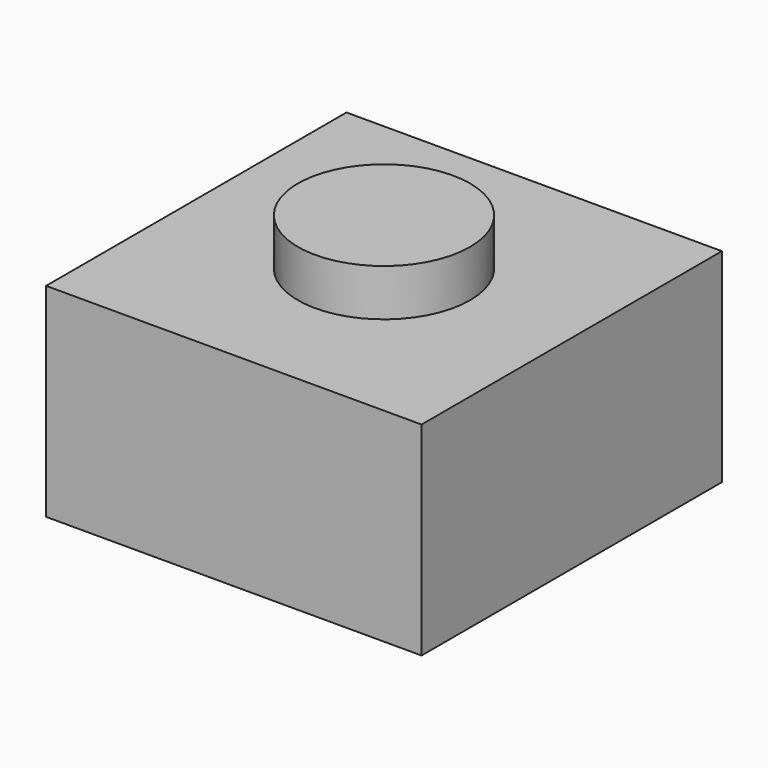
from build123d import *

# Parameters (mm, degrees)
BOX010_W          = 12
BOX010_H          = 12
BOX010_DEPTH      = 6.5
CYLINDER004_R     = 2.75
CYLINDER004_DEPTH = 2.5


with BuildPart() as obj1:
    # Box010 → Box010 (new body)
    with BuildSketch(Plane.XY):
        with Locations((6, 6)):
            Rectangle(BOX010_W, BOX010_H)
    extrude(amount=BOX010_DEPTH)


with BuildPart() as obj2:
    # Cylinder004 → Cylinder004 (new body)
    with BuildSketch(Plane(origin=(6, 6, 5.5), x_dir=(1, 0, 0), z_dir=(0, 0, 1))):
        Circle(CYLINDER004_R)
    extrude(amount=CYLINDER004_DEPTH)

    # Fusion002: union obj1
    add(obj1.part)


with BuildPart() as obj2_1:
    # Fusion002 placement: moved
    add(obj2.part.moved(Location((3.5, 92, 1.1))))


solid = obj2_1.part
